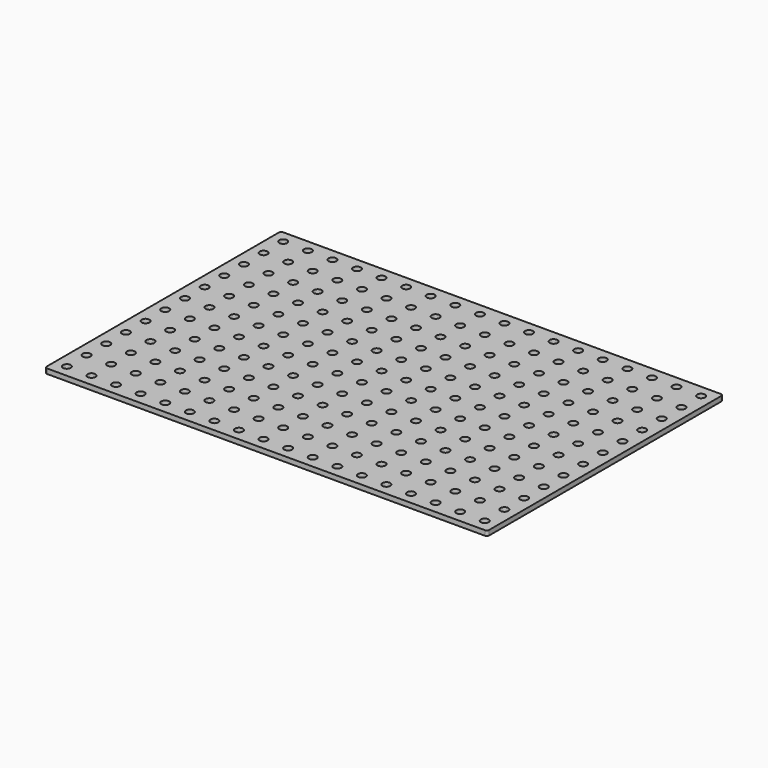
from build123d import *

# Parameters (mm, degrees)
F0_R     = 8
F1_DEPTH = 10


with BuildPart() as f1:
    # F0 (on Top) → F1 (new body)
    with BuildSketch(Plane.XY):
        with BuildLine():
            ThreePointArc((0, 5), (1.464466, 1.464466), (5, 0))
            Line((5, 0), (895, 0))
            ThreePointArc((895, 0), (898.535534, 1.464466), (900, 5))
            Line((900, 5), (900, 595))
            ThreePointArc((900, 595), (898.535534, 598.535534), (895, 600))
            Line((895, 600), (5, 600))
            ThreePointArc((5, 600), (1.464466, 598.535534), (0, 595))
            Line((0, 595), (0, 5))
        make_face()
        with Locations((25, 25)):
            Circle(F0_R, mode=Mode.SUBTRACT)
        with Locations((75, 25)):
            Circle(F0_R, mode=Mode.SUBTRACT)
        with Locations((125, 25)):
            Circle(F0_R, mode=Mode.SUBTRACT)
        with Locations((175, 25)):
            Circle(F0_R, mode=Mode.SUBTRACT)
        with Locations((25, 75)):
            Circle(F0_R, mode=Mode.SUBTRACT)
        with Locations((75, 75)):
            Circle(F0_R, mode=Mode.SUBTRACT)
        with Locations((25, 125)):
            Circle(F0_R, mode=Mode.SUBTRACT)
        with Locations((75, 125)):
            Circle(F0_R, mode=Mode.SUBTRACT)
        with Locations((125, 75)):
            Circle(F0_R, mode=Mode.SUBTRACT)
        with Locations((175, 75)):
            Circle(F0_R, mode=Mode.SUBTRACT)
        with Locations((125, 125)):
            Circle(F0_R, mode=Mode.SUBTRACT)
        with Locations((175, 125)):
            Circle(F0_R, mode=Mode.SUBTRACT)
        with Locations((225, 25)):
            Circle(F0_R, mode=Mode.SUBTRACT)
        with Locations((275, 25)):
            Circle(F0_R, mode=Mode.SUBTRACT)
        with Locations((325, 25)):
            Circle(F0_R, mode=Mode.SUBTRACT)
        with Locations((375, 25)):
            Circle(F0_R, mode=Mode.SUBTRACT)
        with Locations((425, 25)):
            Circle(F0_R, mode=Mode.SUBTRACT)
        with Locations((225, 75)):
            Circle(F0_R, mode=Mode.SUBTRACT)
        with Locations((275, 75)):
            Circle(F0_R, mode=Mode.SUBTRACT)
        with Locations((325, 75)):
            Circle(F0_R, mode=Mode.SUBTRACT)
        with Locations((225, 125)):
            Circle(F0_R, mode=Mode.SUBTRACT)
        with Locations((275, 125)):
            Circle(F0_R, mode=Mode.SUBTRACT)
        with Locations((325, 125)):
            Circle(F0_R, mode=Mode.SUBTRACT)
        with Locations((375, 75)):
            Circle(F0_R, mode=Mode.SUBTRACT)
        with Locations((425, 75)):
            Circle(F0_R, mode=Mode.SUBTRACT)
        with Locations((375, 125)):
            Circle(F0_R, mode=Mode.SUBTRACT)
        with Locations((425, 125)):
            Circle(F0_R, mode=Mode.SUBTRACT)
        with Locations((25, 175)):
            Circle(F0_R, mode=Mode.SUBTRACT)
        with Locations((75, 175)):
            Circle(F0_R, mode=Mode.SUBTRACT)
        with Locations((125, 175)):
            Circle(F0_R, mode=Mode.SUBTRACT)
        with Locations((175, 175)):
            Circle(F0_R, mode=Mode.SUBTRACT)
        with Locations((25, 225)):
            Circle(F0_R, mode=Mode.SUBTRACT)
        with Locations((75, 225)):
            Circle(F0_R, mode=Mode.SUBTRACT)
        with Locations((25, 275)):
            Circle(F0_R, mode=Mode.SUBTRACT)
        with Locations((75, 275)):
            Circle(F0_R, mode=Mode.SUBTRACT)
        with Locations((125, 225)):
            Circle(F0_R, mode=Mode.SUBTRACT)
        with Locations((175, 225)):
            Circle(F0_R, mode=Mode.SUBTRACT)
        with Locations((125, 275)):
            Circle(F0_R, mode=Mode.SUBTRACT)
        with Locations((175, 275)):
            Circle(F0_R, mode=Mode.SUBTRACT)
        with Locations((225, 175)):
            Circle(F0_R, mode=Mode.SUBTRACT)
        with Locations((275, 175)):
            Circle(F0_R, mode=Mode.SUBTRACT)
        with Locations((325, 175)):
            Circle(F0_R, mode=Mode.SUBTRACT)
        with Locations((375, 175)):
            Circle(F0_R, mode=Mode.SUBTRACT)
        with Locations((425, 175)):
            Circle(F0_R, mode=Mode.SUBTRACT)
        with Locations((225, 225)):
            Circle(F0_R, mode=Mode.SUBTRACT)
        with Locations((275, 225)):
            Circle(F0_R, mode=Mode.SUBTRACT)
        with Locations((325, 225)):
            Circle(F0_R, mode=Mode.SUBTRACT)
        with Locations((225, 275)):
            Circle(F0_R, mode=Mode.SUBTRACT)
        with Locations((275, 275)):
            Circle(F0_R, mode=Mode.SUBTRACT)
        with Locations((325, 275)):
            Circle(F0_R, mode=Mode.SUBTRACT)
        with Locations((375, 225)):
            Circle(F0_R, mode=Mode.SUBTRACT)
        with Locations((425, 225)):
            Circle(F0_R, mode=Mode.SUBTRACT)
        with Locations((375, 275)):
            Circle(F0_R, mode=Mode.SUBTRACT)
        with Locations((425, 275)):
            Circle(F0_R, mode=Mode.SUBTRACT)
        with Locations((475, 25)):
            Circle(F0_R, mode=Mode.SUBTRACT)
        with Locations((525, 25)):
            Circle(F0_R, mode=Mode.SUBTRACT)
        with Locations((575, 25)):
            Circle(F0_R, mode=Mode.SUBTRACT)
        with Locations((625, 25)):
            Circle(F0_R, mode=Mode.SUBTRACT)
        with Locations((475, 75)):
            Circle(F0_R, mode=Mode.SUBTRACT)
        with Locations((525, 75)):
            Circle(F0_R, mode=Mode.SUBTRACT)
        with Locations((475, 125)):
            Circle(F0_R, mode=Mode.SUBTRACT)
        with Locations((525, 125)):
            Circle(F0_R, mode=Mode.SUBTRACT)
        with Locations((575, 75)):
            Circle(F0_R, mode=Mode.SUBTRACT)
        with Locations((625, 75)):
            Circle(F0_R, mode=Mode.SUBTRACT)
        with Locations((575, 125)):
            Circle(F0_R, mode=Mode.SUBTRACT)
        with Locations((625, 125)):
            Circle(F0_R, mode=Mode.SUBTRACT)
        with Locations((675, 25)):
            Circle(F0_R, mode=Mode.SUBTRACT)
        with Locations((725, 25)):
            Circle(F0_R, mode=Mode.SUBTRACT)
        with Locations((775, 25)):
            Circle(F0_R, mode=Mode.SUBTRACT)
        with Locations((825, 25)):
            Circle(F0_R, mode=Mode.SUBTRACT)
        with Locations((875, 25)):
            Circle(F0_R, mode=Mode.SUBTRACT)
        with Locations((675, 75)):
            Circle(F0_R, mode=Mode.SUBTRACT)
        with Locations((725, 75)):
            Circle(F0_R, mode=Mode.SUBTRACT)
        with Locations((775, 75)):
            Circle(F0_R, mode=Mode.SUBTRACT)
        with Locations((675, 125)):
            Circle(F0_R, mode=Mode.SUBTRACT)
        with Locations((725, 125)):
            Circle(F0_R, mode=Mode.SUBTRACT)
        with Locations((775, 125)):
            Circle(F0_R, mode=Mode.SUBTRACT)
        with Locations((825, 75)):
            Circle(F0_R, mode=Mode.SUBTRACT)
        with Locations((875, 75)):
            Circle(F0_R, mode=Mode.SUBTRACT)
        with Locations((825, 125)):
            Circle(F0_R, mode=Mode.SUBTRACT)
        with Locations((875, 125)):
            Circle(F0_R, mode=Mode.SUBTRACT)
        with Locations((475, 175)):
            Circle(F0_R, mode=Mode.SUBTRACT)
        with Locations((525, 175)):
            Circle(F0_R, mode=Mode.SUBTRACT)
        with Locations((575, 175)):
            Circle(F0_R, mode=Mode.SUBTRACT)
        with Locations((625, 175)):
            Circle(F0_R, mode=Mode.SUBTRACT)
        with Locations((475, 225)):
            Circle(F0_R, mode=Mode.SUBTRACT)
        with Locations((525, 225)):
            Circle(F0_R, mode=Mode.SUBTRACT)
        with Locations((475, 275)):
            Circle(F0_R, mode=Mode.SUBTRACT)
        with Locations((525, 275)):
            Circle(F0_R, mode=Mode.SUBTRACT)
        with Locations((575, 225)):
            Circle(F0_R, mode=Mode.SUBTRACT)
        with Locations((625, 225)):
            Circle(F0_R, mode=Mode.SUBTRACT)
        with Locations((575, 275)):
            Circle(F0_R, mode=Mode.SUBTRACT)
        with Locations((625, 275)):
            Circle(F0_R, mode=Mode.SUBTRACT)
        with Locations((675, 175)):
            Circle(F0_R, mode=Mode.SUBTRACT)
        with Locations((725, 175)):
            Circle(F0_R, mode=Mode.SUBTRACT)
        with Locations((775, 175)):
            Circle(F0_R, mode=Mode.SUBTRACT)
        with Locations((825, 175)):
            Circle(F0_R, mode=Mode.SUBTRACT)
        with Locations((875, 175)):
            Circle(F0_R, mode=Mode.SUBTRACT)
        with Locations((675, 225)):
            Circle(F0_R, mode=Mode.SUBTRACT)
        with Locations((725, 225)):
            Circle(F0_R, mode=Mode.SUBTRACT)
        with Locations((775, 225)):
            Circle(F0_R, mode=Mode.SUBTRACT)
        with Locations((675, 275)):
            Circle(F0_R, mode=Mode.SUBTRACT)
        with Locations((725, 275)):
            Circle(F0_R, mode=Mode.SUBTRACT)
        with Locations((775, 275)):
            Circle(F0_R, mode=Mode.SUBTRACT)
        with Locations((825, 225)):
            Circle(F0_R, mode=Mode.SUBTRACT)
        with Locations((875, 225)):
            Circle(F0_R, mode=Mode.SUBTRACT)
        with Locations((825, 275)):
            Circle(F0_R, mode=Mode.SUBTRACT)
        with Locations((875, 275)):
            Circle(F0_R, mode=Mode.SUBTRACT)
        with Locations((25, 325)):
            Circle(F0_R, mode=Mode.SUBTRACT)
        with Locations((75, 325)):
            Circle(F0_R, mode=Mode.SUBTRACT)
        with Locations((125, 325)):
            Circle(F0_R, mode=Mode.SUBTRACT)
        with Locations((175, 325)):
            Circle(F0_R, mode=Mode.SUBTRACT)
        with Locations((25, 375)):
            Circle(F0_R, mode=Mode.SUBTRACT)
        with Locations((75, 375)):
            Circle(F0_R, mode=Mode.SUBTRACT)
        with Locations((25, 425)):
            Circle(F0_R, mode=Mode.SUBTRACT)
        with Locations((75, 425)):
            Circle(F0_R, mode=Mode.SUBTRACT)
        with Locations((125, 375)):
            Circle(F0_R, mode=Mode.SUBTRACT)
        with Locations((175, 375)):
            Circle(F0_R, mode=Mode.SUBTRACT)
        with Locations((125, 425)):
            Circle(F0_R, mode=Mode.SUBTRACT)
        with Locations((175, 425)):
            Circle(F0_R, mode=Mode.SUBTRACT)
        with Locations((225, 325)):
            Circle(F0_R, mode=Mode.SUBTRACT)
        with Locations((275, 325)):
            Circle(F0_R, mode=Mode.SUBTRACT)
        with Locations((325, 325)):
            Circle(F0_R, mode=Mode.SUBTRACT)
        with Locations((375, 325)):
            Circle(F0_R, mode=Mode.SUBTRACT)
        with Locations((425, 325)):
            Circle(F0_R, mode=Mode.SUBTRACT)
        with Locations((225, 375)):
            Circle(F0_R, mode=Mode.SUBTRACT)
        with Locations((275, 375)):
            Circle(F0_R, mode=Mode.SUBTRACT)
        with Locations((325, 375)):
            Circle(F0_R, mode=Mode.SUBTRACT)
        with Locations((225, 425)):
            Circle(F0_R, mode=Mode.SUBTRACT)
        with Locations((275, 425)):
            Circle(F0_R, mode=Mode.SUBTRACT)
        with Locations((325, 425)):
            Circle(F0_R, mode=Mode.SUBTRACT)
        with Locations((375, 375)):
            Circle(F0_R, mode=Mode.SUBTRACT)
        with Locations((425, 375)):
            Circle(F0_R, mode=Mode.SUBTRACT)
        with Locations((375, 425)):
            Circle(F0_R, mode=Mode.SUBTRACT)
        with Locations((425, 425)):
            Circle(F0_R, mode=Mode.SUBTRACT)
        with Locations((25, 475)):
            Circle(F0_R, mode=Mode.SUBTRACT)
        with Locations((75, 475)):
            Circle(F0_R, mode=Mode.SUBTRACT)
        with Locations((125, 475)):
            Circle(F0_R, mode=Mode.SUBTRACT)
        with Locations((175, 475)):
            Circle(F0_R, mode=Mode.SUBTRACT)
        with Locations((25, 525)):
            Circle(F0_R, mode=Mode.SUBTRACT)
        with Locations((75, 525)):
            Circle(F0_R, mode=Mode.SUBTRACT)
        with Locations((25, 575)):
            Circle(F0_R, mode=Mode.SUBTRACT)
        with Locations((75, 575)):
            Circle(F0_R, mode=Mode.SUBTRACT)
        with Locations((125, 525)):
            Circle(F0_R, mode=Mode.SUBTRACT)
        with Locations((175, 525)):
            Circle(F0_R, mode=Mode.SUBTRACT)
        with Locations((125, 575)):
            Circle(F0_R, mode=Mode.SUBTRACT)
        with Locations((175, 575)):
            Circle(F0_R, mode=Mode.SUBTRACT)
        with Locations((225, 475)):
            Circle(F0_R, mode=Mode.SUBTRACT)
        with Locations((275, 475)):
            Circle(F0_R, mode=Mode.SUBTRACT)
        with Locations((325, 475)):
            Circle(F0_R, mode=Mode.SUBTRACT)
        with Locations((375, 475)):
            Circle(F0_R, mode=Mode.SUBTRACT)
        with Locations((425, 475)):
            Circle(F0_R, mode=Mode.SUBTRACT)
        with Locations((225, 525)):
            Circle(F0_R, mode=Mode.SUBTRACT)
        with Locations((275, 525)):
            Circle(F0_R, mode=Mode.SUBTRACT)
        with Locations((325, 525)):
            Circle(F0_R, mode=Mode.SUBTRACT)
        with Locations((225, 575)):
            Circle(F0_R, mode=Mode.SUBTRACT)
        with Locations((275, 575)):
            Circle(F0_R, mode=Mode.SUBTRACT)
        with Locations((325, 575)):
            Circle(F0_R, mode=Mode.SUBTRACT)
        with Locations((375, 525)):
            Circle(F0_R, mode=Mode.SUBTRACT)
        with Locations((425, 525)):
            Circle(F0_R, mode=Mode.SUBTRACT)
        with Locations((375, 575)):
            Circle(F0_R, mode=Mode.SUBTRACT)
        with Locations((425, 575)):
            Circle(F0_R, mode=Mode.SUBTRACT)
        with Locations((475, 325)):
            Circle(F0_R, mode=Mode.SUBTRACT)
        with Locations((525, 325)):
            Circle(F0_R, mode=Mode.SUBTRACT)
        with Locations((575, 325)):
            Circle(F0_R, mode=Mode.SUBTRACT)
        with Locations((625, 325)):
            Circle(F0_R, mode=Mode.SUBTRACT)
        with Locations((475, 375)):
            Circle(F0_R, mode=Mode.SUBTRACT)
        with Locations((525, 375)):
            Circle(F0_R, mode=Mode.SUBTRACT)
        with Locations((475, 425)):
            Circle(F0_R, mode=Mode.SUBTRACT)
        with Locations((525, 425)):
            Circle(F0_R, mode=Mode.SUBTRACT)
        with Locations((575, 375)):
            Circle(F0_R, mode=Mode.SUBTRACT)
        with Locations((625, 375)):
            Circle(F0_R, mode=Mode.SUBTRACT)
        with Locations((575, 425)):
            Circle(F0_R, mode=Mode.SUBTRACT)
        with Locations((625, 425)):
            Circle(F0_R, mode=Mode.SUBTRACT)
        with Locations((675, 325)):
            Circle(F0_R, mode=Mode.SUBTRACT)
        with Locations((725, 325)):
            Circle(F0_R, mode=Mode.SUBTRACT)
        with Locations((775, 325)):
            Circle(F0_R, mode=Mode.SUBTRACT)
        with Locations((825, 325)):
            Circle(F0_R, mode=Mode.SUBTRACT)
        with Locations((875, 325)):
            Circle(F0_R, mode=Mode.SUBTRACT)
        with Locations((675, 375)):
            Circle(F0_R, mode=Mode.SUBTRACT)
        with Locations((725, 375)):
            Circle(F0_R, mode=Mode.SUBTRACT)
        with Locations((775, 375)):
            Circle(F0_R, mode=Mode.SUBTRACT)
        with Locations((675, 425)):
            Circle(F0_R, mode=Mode.SUBTRACT)
        with Locations((725, 425)):
            Circle(F0_R, mode=Mode.SUBTRACT)
        with Locations((775, 425)):
            Circle(F0_R, mode=Mode.SUBTRACT)
        with Locations((825, 375)):
            Circle(F0_R, mode=Mode.SUBTRACT)
        with Locations((875, 375)):
            Circle(F0_R, mode=Mode.SUBTRACT)
        with Locations((825, 425)):
            Circle(F0_R, mode=Mode.SUBTRACT)
        with Locations((875, 425)):
            Circle(F0_R, mode=Mode.SUBTRACT)
        with Locations((475, 475)):
            Circle(F0_R, mode=Mode.SUBTRACT)
        with Locations((525, 475)):
            Circle(F0_R, mode=Mode.SUBTRACT)
        with Locations((575, 475)):
            Circle(F0_R, mode=Mode.SUBTRACT)
        with Locations((625, 475)):
            Circle(F0_R, mode=Mode.SUBTRACT)
        with Locations((475, 525)):
            Circle(F0_R, mode=Mode.SUBTRACT)
        with Locations((525, 525)):
            Circle(F0_R, mode=Mode.SUBTRACT)
        with Locations((475, 575)):
            Circle(F0_R, mode=Mode.SUBTRACT)
        with Locations((525, 575)):
            Circle(F0_R, mode=Mode.SUBTRACT)
        with Locations((575, 525)):
            Circle(F0_R, mode=Mode.SUBTRACT)
        with Locations((625, 525)):
            Circle(F0_R, mode=Mode.SUBTRACT)
        with Locations((575, 575)):
            Circle(F0_R, mode=Mode.SUBTRACT)
        with Locations((625, 575)):
            Circle(F0_R, mode=Mode.SUBTRACT)
        with Locations((675, 475)):
            Circle(F0_R, mode=Mode.SUBTRACT)
        with Locations((725, 475)):
            Circle(F0_R, mode=Mode.SUBTRACT)
        with Locations((775, 475)):
            Circle(F0_R, mode=Mode.SUBTRACT)
        with Locations((825, 475)):
            Circle(F0_R, mode=Mode.SUBTRACT)
        with Locations((875, 475)):
            Circle(F0_R, mode=Mode.SUBTRACT)
        with Locations((675, 525)):
            Circle(F0_R, mode=Mode.SUBTRACT)
        with Locations((725, 525)):
            Circle(F0_R, mode=Mode.SUBTRACT)
        with Locations((775, 525)):
            Circle(F0_R, mode=Mode.SUBTRACT)
        with Locations((675, 575)):
            Circle(F0_R, mode=Mode.SUBTRACT)
        with Locations((725, 575)):
            Circle(F0_R, mode=Mode.SUBTRACT)
        with Locations((775, 575)):
            Circle(F0_R, mode=Mode.SUBTRACT)
        with Locations((825, 525)):
            Circle(F0_R, mode=Mode.SUBTRACT)
        with Locations((875, 525)):
            Circle(F0_R, mode=Mode.SUBTRACT)
        with Locations((825, 575)):
            Circle(F0_R, mode=Mode.SUBTRACT)
        with Locations((875, 575)):
            Circle(F0_R, mode=Mode.SUBTRACT)
    extrude(amount=F1_DEPTH)


solid = f1.part
